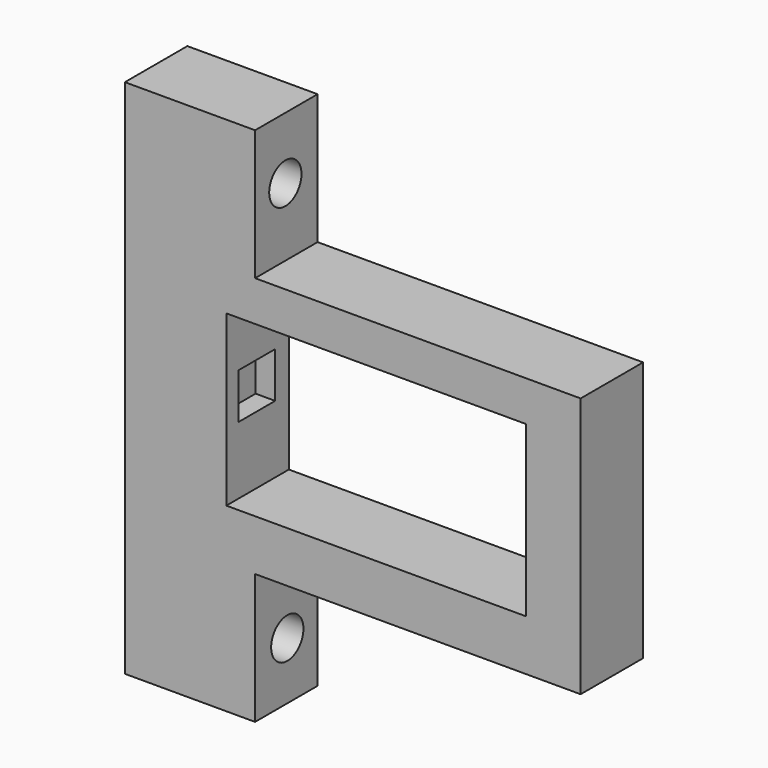
from build123d import *

# Parameters (mm, degrees)
F0_W      = 46
F0_H      = 26
F2_DEPTH  = 12
F4_D      = 6.2
F5_D      = 6.2
F7_W      = 7
F7_H      = 7
F8_DEPTH  = 3
F9_W      = 7
F9_H      = 7
F10_DEPTH = 3


with BuildPart() as f2:
    # F0 (on Front) → F2 (new body)
    with BuildSketch(Plane.XZ):
        Polygon((4.415234, -27.81175), (4.415234, -7.81175), (54.415234, -7.81175), (54.415234, 32.18825), (4.415234, 32.18825), (4.415234, 52.18825), (-15.584766, 52.18825), (-15.584766, -27.81175), align=None)
        with Locations((23, 13)):
            Rectangle(F0_W, F0_H, mode=Mode.SUBTRACT)
    extrude(amount=F2_DEPTH)

    # F4 (through all)
    with Locations(Plane.YZ.offset(25)):
        with Locations((-6.192415, 42.658858)):
            Hole(F4_D / 2)

    # F5 (through all)
    with Locations(Plane.YZ.offset(25)):
        with Locations((-5.817117, -18.983817)):
            Hole(F5_D / 2)

    # F7 (on Right) → F8 (cut)
    with BuildSketch(Plane.YZ):
        with Locations((-6.127085, 13.853554)):
            Rectangle(F7_W, F7_H)
    extrude(amount=-F8_DEPTH, mode=Mode.SUBTRACT)

    # F9 (on offset) → F10 (cut)
    with BuildSketch(Plane.YZ.offset(46)):
        with Locations((-5.657963, 13.853554)):
            Rectangle(F9_W, F9_H)
    extrude(amount=F10_DEPTH, mode=Mode.SUBTRACT)


solid = f2.part
